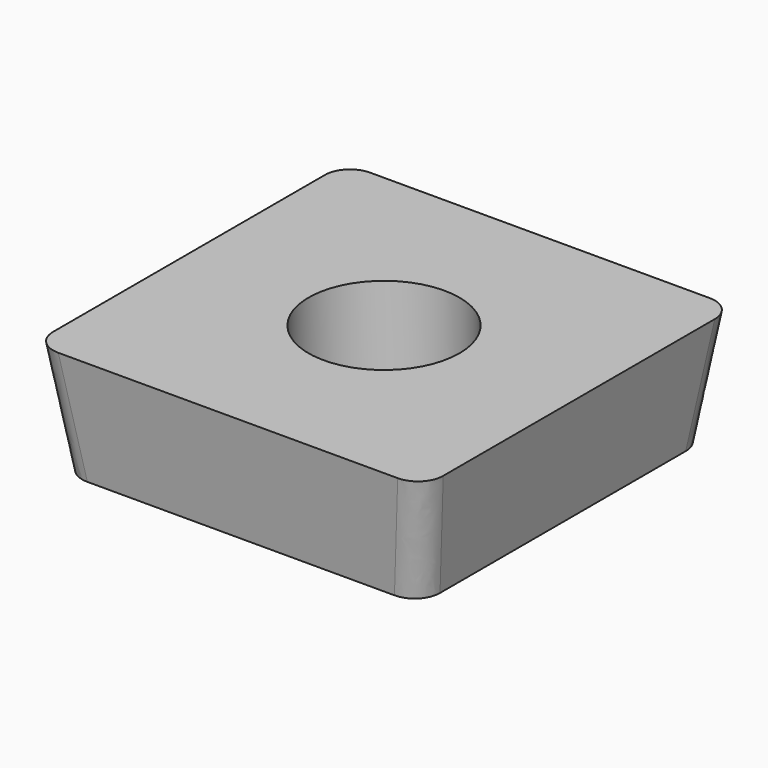
from build123d import *

# Parameters (mm, degrees)
F0_W     = 14
F0_H     = 14
F1_DEPTH = 4.5
F1_TAPER = -8
F2_R     = 1
F3_R     = 2.9535288369
F4_DEPTH = 25


with BuildPart() as f1:
    # F0 (on Top) → F1 (new body)
    with BuildSketch(Plane.XY):
        with Locations((7, -7)):
            Rectangle(F0_W, F0_H)
    extrude(amount=F1_DEPTH, taper=F1_TAPER)

    # F2
    f2_edges = [f1.edges().sort_by_distance(p)[0] for p in [
        (-0.316217, -14.316217, 2.25),
        (14.316217, -14.316217, 2.25),
        (14.316217, 0.316217, 2.25),
        (-0.316217, 0.316217, 2.25),
    ]]
    fillet(f2_edges, radius=F2_R)

    # F3 (on face) → F4 (cut)
    with BuildSketch(Plane(origin=(0, 0, 0), x_dir=(1, 0, 0), z_dir=(0, 0, -1))):
        with Locations((7, 7)):
            Circle(F3_R)
    extrude(amount=-F4_DEPTH, mode=Mode.SUBTRACT)


solid = f1.part
